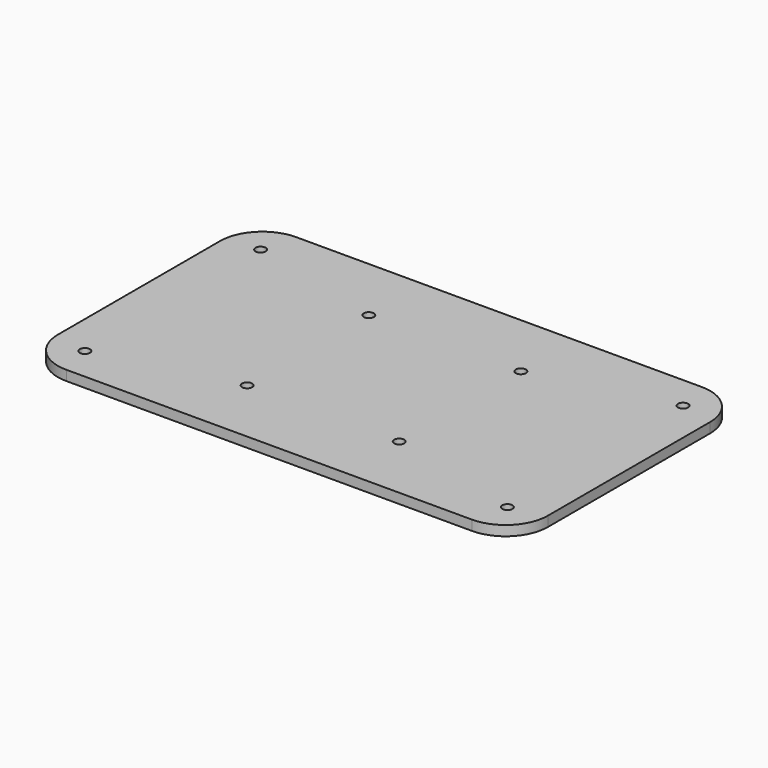
from build123d import *

# Parameters (mm, degrees)
PAD015_DEPTH    = 2.9972
SKETCH022_R     = 1.524
POCKET002_DEPTH = 2.9972
SKETCH023_R     = 1.524
POCKET003_DEPTH = 2.9972


with BuildPart() as part:
    # Sketch018 → Pad015 (new body)
    with BuildSketch(Plane.XY.offset(-90.4748)):
        with BuildLine():
            Line((-60.96, 43.18), (60.96, 43.18))
            ThreePointArc((73.66, 30.48), (69.940256, 39.460256), (60.96, 43.18))
            Line((73.66, 30.48), (73.66, -30.48))
            ThreePointArc((60.96, -43.18), (69.940256, -39.460256), (73.66, -30.48))
            Line((60.96, -43.18), (-60.96, -43.18))
            ThreePointArc((-73.66, -30.48), (-69.940256, -39.460256), (-60.96, -43.18))
            Line((-73.66, -30.48), (-73.66, 30.48))
            ThreePointArc((-60.96, 43.18), (-69.940256, 39.460256), (-73.66, 30.48))
        make_face()
    extrude(amount=-PAD015_DEPTH)

    # Sketch022 → Pocket002 (cut)
    with BuildSketch(Plane(origin=(0, 0, -93.472), x_dir=(1, 0, 0), z_dir=(0, 0, -1))):
        with Locations((-63.5, 33.02)):
            Circle(SKETCH022_R)
        with Locations((-63.5, -33.02)):
            Circle(SKETCH022_R)
        with Locations((63.5, -33.02)):
            Circle(SKETCH022_R)
        with Locations((63.5, 33.02)):
            Circle(SKETCH022_R)
    extrude(amount=-POCKET002_DEPTH, mode=Mode.SUBTRACT)

    # Sketch023 → Pocket003 (cut)
    with BuildSketch(Plane(origin=(0, 0, -93.472), x_dir=(1, 0, 0), z_dir=(0, 0, -1))):
        with Locations((-22.86, 22.86)):
            Circle(SKETCH023_R)
        with Locations((-22.86, -22.86)):
            Circle(SKETCH023_R)
        with Locations((22.86, -22.86)):
            Circle(SKETCH023_R)
        with Locations((22.86, 22.86)):
            Circle(SKETCH023_R)
    extrude(amount=-POCKET003_DEPTH, mode=Mode.SUBTRACT)


solid = part.part
